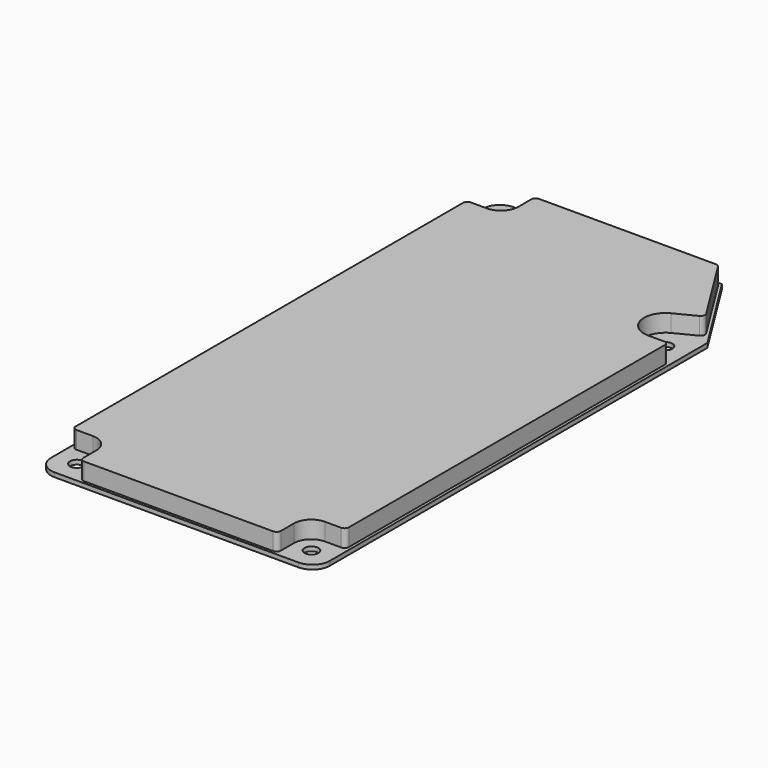
from build123d import *

# Parameters (mm, degrees)
F0_R     = 2.54
F1_DEPTH = 1.5875
F3_DEPTH = 6.35


with BuildPart() as f1:
    # F0 (on Top) → F1 (new body)
    with BuildSketch(Plane.XY):
        with BuildLine():
            ThreePointArc((0, 6.35), (1.859872, 1.859872), (6.35, 0))
            Line((6.35, 0), (95.65005, 0))
            ThreePointArc((95.65005, 0), (100.140178, 1.859872), (102.00005, 6.35))
            Line((102.00005, 6.35), (102.00005, 178.805276))
            ThreePointArc((102.00005, 178.805276), (101.980273, 178.945639), (101.922484, 179.075074))
            Line((101.922484, 179.075074), (82.699306, 209.743598))
            ThreePointArc((82.699306, 209.743598), (82.514847, 209.918278), (82.268873, 209.9818))
            Line((82.268873, 209.9818), (6.35, 209.9818))
            ThreePointArc((6.35, 209.9818), (1.859872, 208.121928), (0, 203.6318))
            Line((0, 203.6318), (0, 6.35))
        make_face()
        with Locations((8.1026, 8.1026)):
            Circle(F0_R, mode=Mode.SUBTRACT)
        with Locations((93.89745, 8.1026)):
            Circle(F0_R, mode=Mode.SUBTRACT)
        with Locations((8.1026, 201.8792)):
            Circle(F0_R, mode=Mode.SUBTRACT)
        with Locations((93.89745, 169.926)):
            Circle(F0_R, mode=Mode.SUBTRACT)
    extrude(amount=F1_DEPTH)

    # F2 (on face) → F3 (join)
    with BuildSketch(Plane.XY.offset(1.5875)):
        with BuildLine():
            Line((81.1149, 208.9912), (16.4465, 208.9912))
            ThreePointArc((16.4465, 208.9912), (15.323968, 208.526232), (14.859, 207.4037))
            Line((14.859, 207.4037), (14.859, 201.46264))
            ThreePointArc((14.859, 201.46264), (12.999128, 196.972512), (8.509, 195.11264))
            Line((8.509, 195.11264), (2.5781, 195.11264))
            ThreePointArc((2.5781, 195.11264), (1.455568, 194.647672), (0.9906, 193.52514))
            Line((0.9906, 193.52514), (0.9906, 16.4465))
            ThreePointArc((0.9906, 16.4465), (1.455568, 15.323968), (2.5781, 14.859))
            Line((2.5781, 14.859), (8.509, 14.859))
            ThreePointArc((8.509, 14.859), (12.999128, 12.999128), (14.859, 8.509))
            Line((14.859, 8.509), (14.859, 2.5781))
            ThreePointArc((14.859, 2.5781), (15.323968, 1.455568), (16.4465, 0.9906))
            Line((16.4465, 0.9906), (85.55355, 0.9906))
            ThreePointArc((85.55355, 0.9906), (86.676082, 1.455568), (87.14105, 2.5781))
            Line((87.14105, 2.5781), (87.14105, 8.509))
            ThreePointArc((87.14105, 8.509), (89.000922, 12.999128), (93.49105, 14.859))
            Line((93.49105, 14.859), (99.325214, 14.859))
            ThreePointArc((99.325214, 14.859), (100.447746, 15.323968), (100.912714, 16.4465))
            Line((100.912714, 16.4465), (100.912714, 160.8709))
            ThreePointArc((100.912714, 160.8709), (100.447746, 161.993432), (99.325214, 162.4584))
            Line((99.325214, 162.4584), (93.622914, 162.4584))
            ThreePointArc((93.622914, 162.4584), (85.981627, 168.480706), (90.051433, 177.317794))
            Line((90.051433, 177.317794), (97.443973, 181.089289))
            ThreePointArc((97.443973, 181.089289), (98.2527, 182.080608), (98.067638, 183.346508))
            Line((98.067638, 183.346508), (82.460005, 208.246818))
            ThreePointArc((82.460005, 208.246818), (81.88357, 208.792694), (81.1149, 208.9912))
        make_face()
    extrude(amount=F3_DEPTH)


solid = f1.part
